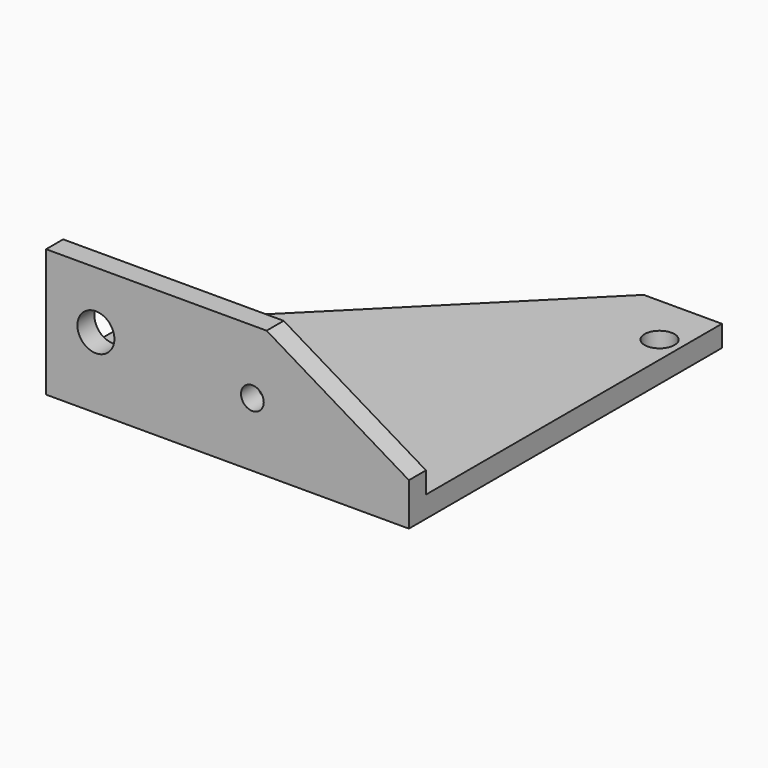
from build123d import *

# Parameters (mm, degrees)
F0_W      = 51
F0_H      = 55
F1_DEPTH  = 3
F2_W      = 51
F2_H      = 3
F3_DEPTH  = 15
F4_R      = 2.6
F4_R_2    = 1.6
F5_DEPTH  = 25
F6_R      = 2.1
F7_DEPTH  = 25
F9_DEPTH  = 25
F11_DEPTH = 25


with BuildPart() as f1:
    # F0 (on Top) → F1 (new body)
    with BuildSketch(Plane.XY):
        with Locations((25.5, 27.5)):
            Rectangle(F0_W, F0_H)
    extrude(amount=F1_DEPTH)

    # F2 (on face) → F3 (join)
    with BuildSketch(Plane.XY.offset(3)):
        with Locations((25.5, 1.5)):
            Rectangle(F2_W, F2_H)
    extrude(amount=F3_DEPTH)

    # F4 (on face) → F5 (cut)
    with BuildSketch(Plane.XZ):
        with Locations((7, 10)):
            Circle(F4_R)
        with Locations((29, 9)):
            Circle(F4_R_2)
    extrude(amount=-F5_DEPTH, mode=Mode.SUBTRACT)

    # F6 (on face) → F7 (cut)
    with BuildSketch(Plane.XY.offset(3)):
        with Locations((4, 10)):
            Circle(F6_R)
        with Locations((48, 47.788887)):
            Circle(F6_R)
    extrude(amount=-F7_DEPTH, mode=Mode.SUBTRACT)

    # F8 (on face) → F9 (cut)
    with BuildSketch(Plane.XY.offset(3)):
        Polygon((0, 15), (40, 55), (0, 55), align=None)
    extrude(amount=-F9_DEPTH, mode=Mode.SUBTRACT)

    # F10 (on face) → F11 (cut)
    with BuildSketch(Plane(origin=(0, 3, 0), x_dir=(-1, 0, 0), z_dir=(0, 1, 0))):
        Polygon((-51, 6), (-31, 18), (-51, 18), align=None)
    extrude(amount=-F11_DEPTH, mode=Mode.SUBTRACT)


solid = f1.part
